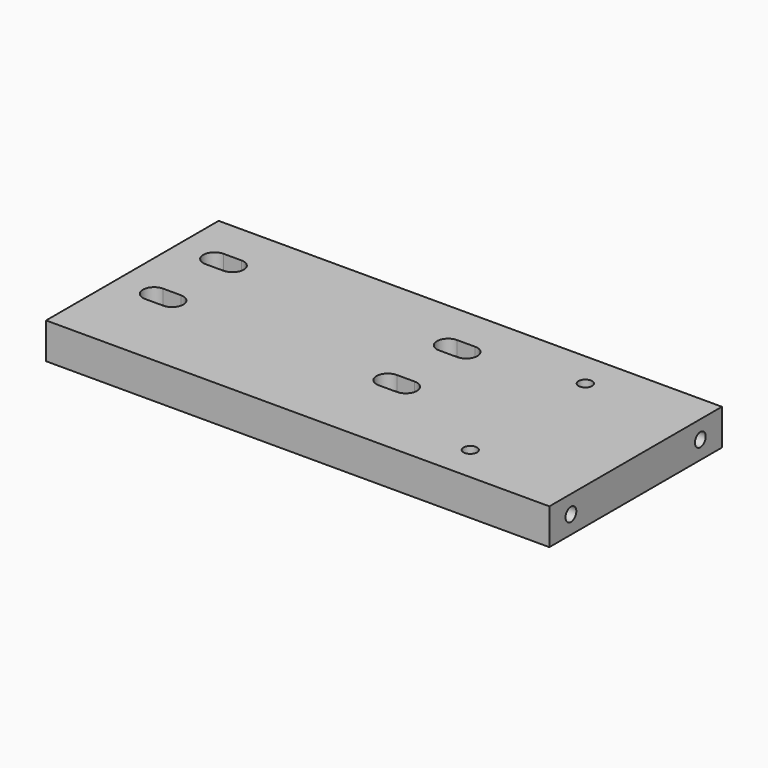
from build123d import *

# Parameters (mm, degrees)
F0_W     = 177.8
F0_H     = 76.2
F0_R     = 2.3876
F1_DEPTH = 12.7
F3_DEPTH = 5.207
F5_D     = 4.7752
F5_DEPTH = 19.05
F5_TIP   = 1.434614814


with BuildPart() as f1:
    # F0 (on Top) → F1 (new body)
    with BuildSketch(Plane.XY):
        with Locations((26.67, -19.6088)):
            Rectangle(F0_W, F0_H)
        with BuildLine():
            ThreePointArc((-48.895, -29.083), (-51.308, -26.67), (-48.895, -24.257))
            Line((-48.895, -24.257), (-42.545, -24.257))
            ThreePointArc((-42.545, -24.257), (-40.132, -26.67), (-42.545, -29.083))
            Line((-42.545, -29.083), (-48.895, -29.083))
        make_face(mode=Mode.SUBTRACT)
        with Locations((77.47, -45.0088)):
            Circle(F0_R, mode=Mode.SUBTRACT)
        with BuildLine():
            ThreePointArc((33.655, -29.083), (31.242, -26.67), (33.655, -24.257))
            Line((33.655, -24.257), (40.005, -24.257))
            ThreePointArc((40.005, -24.257), (42.418, -26.67), (40.005, -29.083))
            Line((40.005, -29.083), (33.655, -29.083))
        make_face(mode=Mode.SUBTRACT)
        with BuildLine():
            ThreePointArc((-48.895, -2.413), (-51.308, 0), (-48.895, 2.413))
            Line((-48.895, 2.413), (-42.545, 2.413))
            ThreePointArc((-42.545, 2.413), (-40.132, 0), (-42.545, -2.413))
            Line((-42.545, -2.413), (-48.895, -2.413))
        make_face(mode=Mode.SUBTRACT)
        with BuildLine():
            Line((40.005, -2.413), (33.655, -2.413))
            ThreePointArc((33.655, -2.413), (31.242, 0), (33.655, 2.413))
            Line((33.655, 2.413), (40.005, 2.413))
            ThreePointArc((40.005, 2.413), (42.418, 0), (40.005, -2.413))
        make_face(mode=Mode.SUBTRACT)
        with Locations((77.47, 5.7912)):
            Circle(F0_R, mode=Mode.SUBTRACT)
    extrude(amount=-F1_DEPTH)

    # F2 (on face) → F3 (cut)
    with BuildSketch(Plane.XY):
        with BuildLine():
            Line((-42.545, 3.9624), (-48.895, 3.9624))
            ThreePointArc((-48.895, 3.9624), (-52.8574, 0), (-48.895, -3.9624))
            Line((-48.895, -3.9624), (-42.545, -3.9624))
            ThreePointArc((-42.545, -3.9624), (-38.5826, 0), (-42.545, 3.9624))
        make_face()
        with BuildLine():
            Line((33.655, -3.9624), (40.005, -3.9624))
            ThreePointArc((40.005, -3.9624), (43.9674, 0), (40.005, 3.9624))
            Line((40.005, 3.9624), (33.655, 3.9624))
            ThreePointArc((33.655, 3.9624), (29.6926, 0), (33.655, -3.9624))
        make_face()
        with BuildLine():
            ThreePointArc((40.005, -30.6324), (43.9674, -26.67), (40.005, -22.7076))
            Line((40.005, -22.7076), (33.655, -22.7076))
            ThreePointArc((33.655, -22.7076), (29.6926, -26.67), (33.655, -30.6324))
            Line((33.655, -30.6324), (40.005, -30.6324))
        make_face()
        with BuildLine():
            Line((-42.545, -22.7076), (-48.895, -22.7076))
            ThreePointArc((-48.895, -22.7076), (-52.8574, -26.67), (-48.895, -30.6324))
            Line((-48.895, -30.6324), (-42.545, -30.6324))
            ThreePointArc((-42.545, -30.6324), (-38.5826, -26.67), (-42.545, -22.7076))
        make_face()
    extrude(amount=-F3_DEPTH, mode=Mode.SUBTRACT)

    # F5
    with Locations(Plane.YZ.offset(115.57)):
        with Locations((-48.1838, -6.35), (8.9662, -6.35)):
            Hole(F5_D / 2, depth=F5_DEPTH)
            with Locations((0, 0, -(F5_DEPTH + F5_TIP / 2))):  # 118° drill point
                Cone(0, F5_D / 2, F5_TIP, mode=Mode.SUBTRACT)


solid = f1.part
